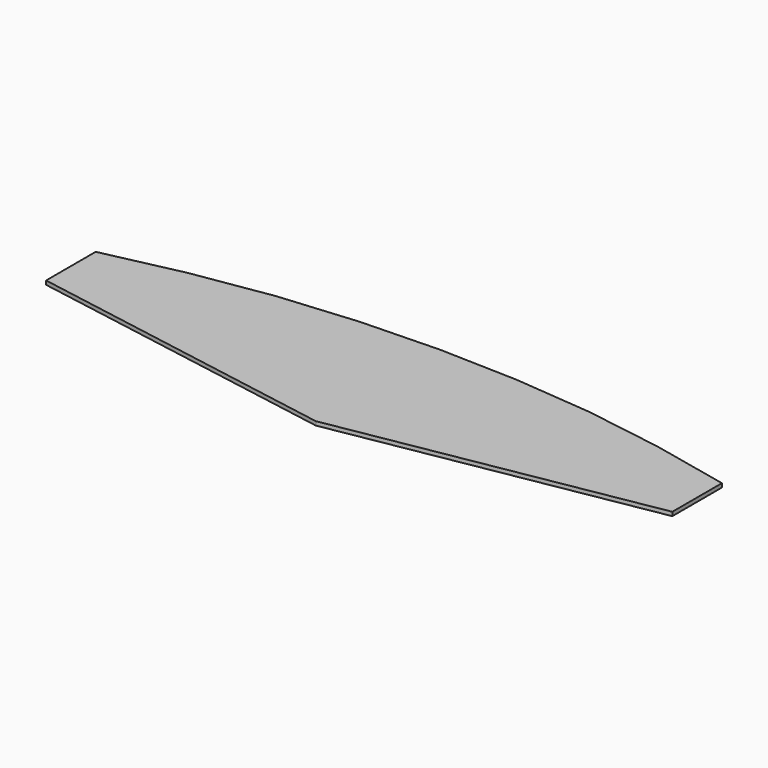
from build123d import *

# Parameters (mm, degrees)
F1_DEPTH = 5


with BuildPart() as f1:
    # F0 (on Top) → F1 (new body)
    with BuildSketch(Plane.XY):
        Polygon((404, 70), (404, 150), (303, 172), (303, 52.5), align=None)
        Polygon((303, 52.5), (303, 172), (202, 188), (202, 35), align=None)
        Polygon((202, 35), (202, 188), (101, 197), (101, 17.5), align=None)
        Polygon((101, 17.5), (101, 197), (0, 200), (0, 0), align=None)
        Polygon((0, 0), (0, 200), (-101, 197), (-101, 17.5), align=None)
        Polygon((-101, 17.5), (-101, 197), (-202, 188), (-202, 35), align=None)
        Polygon((-202, 35), (-202, 188), (-303, 172), (-303, 52.5), align=None)
        Polygon((-303, 52.5), (-303, 172), (-404, 150), (-404, 70), align=None)
    extrude(amount=F1_DEPTH)


solid = f1.part
